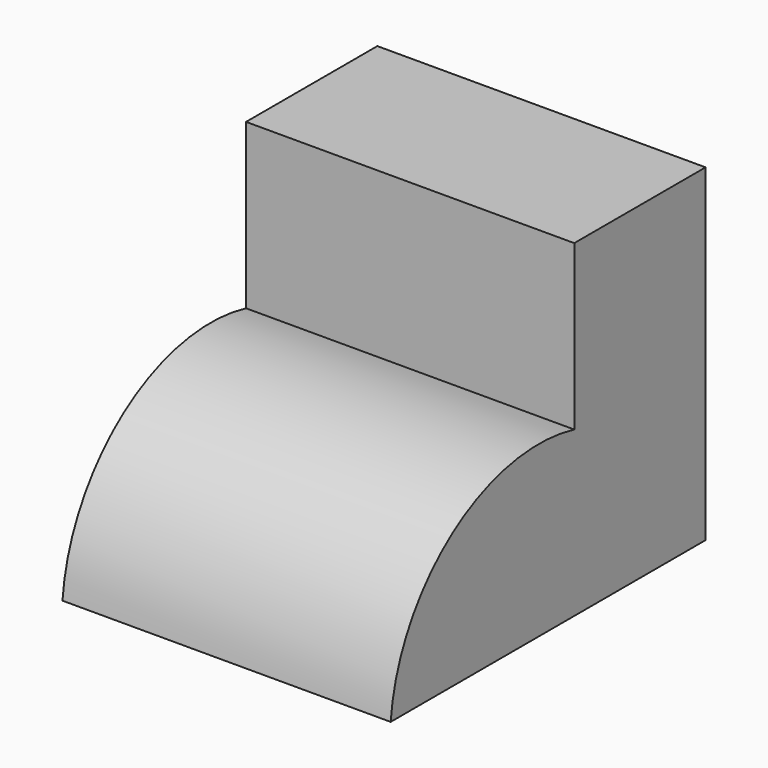
from build123d import *

# Parameters (mm, degrees)
F0_W     = 50.8
F0_H     = 50.8
F1_DEPTH = 25.4
F3_DEPTH = 50.8


with BuildPart() as f1:
    # F0 (on Front) → F1 (new body)
    with BuildSketch(Plane.XZ):
        with Locations((25.4, 25.4)):
            Rectangle(F0_W, F0_H)
    extrude(amount=F1_DEPTH)

    # F2 (on face) → F3 (join)
    with BuildSketch(Plane(origin=(0, 0, 0), x_dir=(0, -1, 0), z_dir=(-1, 0, 0))):
        with BuildLine():
            Line((25.4, 0), (60.921323, 0))
            ThreePointArc((60.921323, 0), (48.990796, 20.853311), (25.4, 25.4))
            Line((25.4, 25.4), (25.4, 0))
        make_face()
    extrude(amount=-F3_DEPTH)


solid = f1.part
